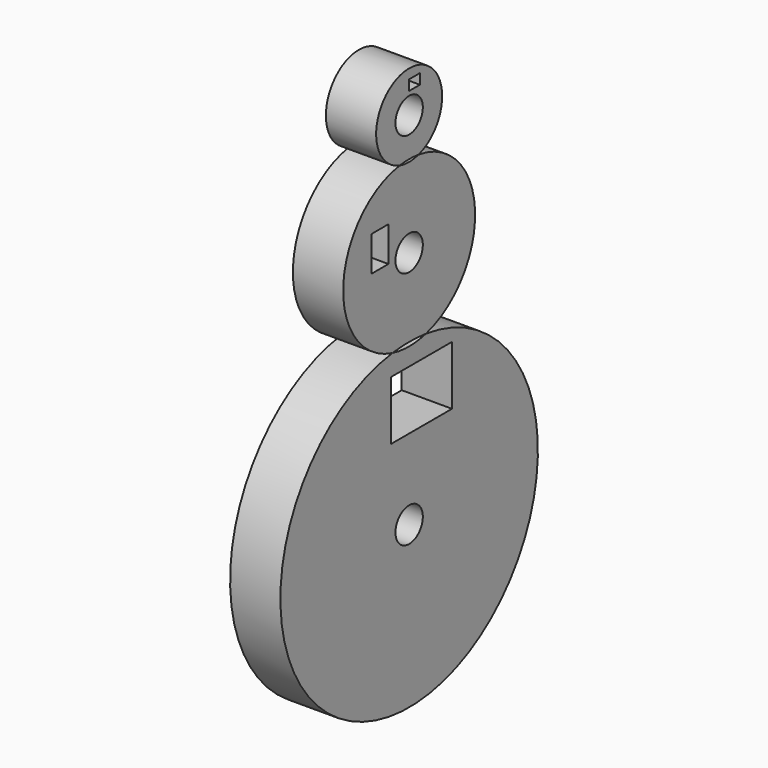
from build123d import *

# Parameters (mm, degrees)
F0_R     = 2.159
F0_W     = 1.6939451452
F0_H     = 1.2945365161
F1_DEPTH = 3.175
F0_W_2   = 2.6969534811
F0_H_2   = 4.4230010826
F0_W_3   = 9.6011492424
F0_H_3   = 7.443588227


with BuildPart() as f1:
    # F0 (on Right) → F1 (new body, symmetric)
    with BuildSketch(Plane.YZ):
        with BuildLine():
            ThreePointArc((-1.4952248906, 4.9759547406), (0, 5.0838546767), (1.4952248906, 4.9759547406))
            ThreePointArc((1.4952248906, 4.9759547406), (4.177229046, 6.8550205791), (5.207, 9.9636547643))
            ThreePointArc((5.207, 9.9636547643), (-3.1086341852, 14.1408838103), (-1.4952248906, 4.9759547406))
        make_face()
        with Locations((0, 9.9636547643)):
            Circle(F0_R, mode=Mode.SUBTRACT)
        with Locations((0.8469725726, 13.3056268096)):
            Rectangle(F0_W, F0_H, mode=Mode.SUBTRACT)
    extrude(amount=F1_DEPTH, both=True)


with BuildPart() as f1b:
    # F0 (on Right) → F1, piece 2 (new body, symmetric)
    with BuildSketch(Plane.YZ):
        with BuildLine():
            ThreePointArc((2.6465530474, -15.4022430674), (8.2465932189, -11.6897912475), (10.414, -5.3301453233))
            ThreePointArc((10.414, -5.3301453233), (7.8747275512, 1.4845492403), (1.4952248906, 4.9759547406))
            ThreePointArc((1.4952248906, 4.9759547406), (0, 4.7566547643), (-1.4952248906, 4.9759547406))
            ThreePointArc((-1.4952248906, 4.9759547406), (-10.3974187949, -4.7427115801), (-2.6465530474, -15.4022430674))
            ThreePointArc((-2.6465530474, -15.4022430674), (0, -15.2291573961), (2.6465530474, -15.4022430674))
        make_face()
        with Locations((-4.6169223497, -3.0379028758)):
            Rectangle(F0_W_2, F0_H_2, mode=Mode.SUBTRACT)
        with Locations((0, -5.3301453233)):
            Circle(F0_R, mode=Mode.SUBTRACT)
    extrude(amount=F1_DEPTH, both=True)


with BuildPart() as f1c:
    # F0 (on Right) → F1, piece 3 (new body, symmetric)
    with BuildSketch(Plane.YZ):
        with BuildLine():
            ThreePointArc((20.32, -35.5491573961), (15.2754763907, -22.1490745218), (2.6465530474, -15.4022430674))
            ThreePointArc((2.6465530474, -15.4022430674), (0, -15.7441453233), (-2.6465530474, -15.4022430674))
            ThreePointArc((-2.6465530474, -15.4022430674), (-13.4000828743, -50.8246337867), (20.32, -35.5491573961))
        make_face()
        with Locations((0, -35.5491573961)):
            Circle(F0_R, mode=Mode.SUBTRACT)
        with Locations((1.9636412617, -21.7008125037)):
            Rectangle(F0_W_3, F0_H_3, mode=Mode.SUBTRACT)
    extrude(amount=F1_DEPTH, both=True)


solid = Compound([f1.part, f1b.part, f1c.part])
